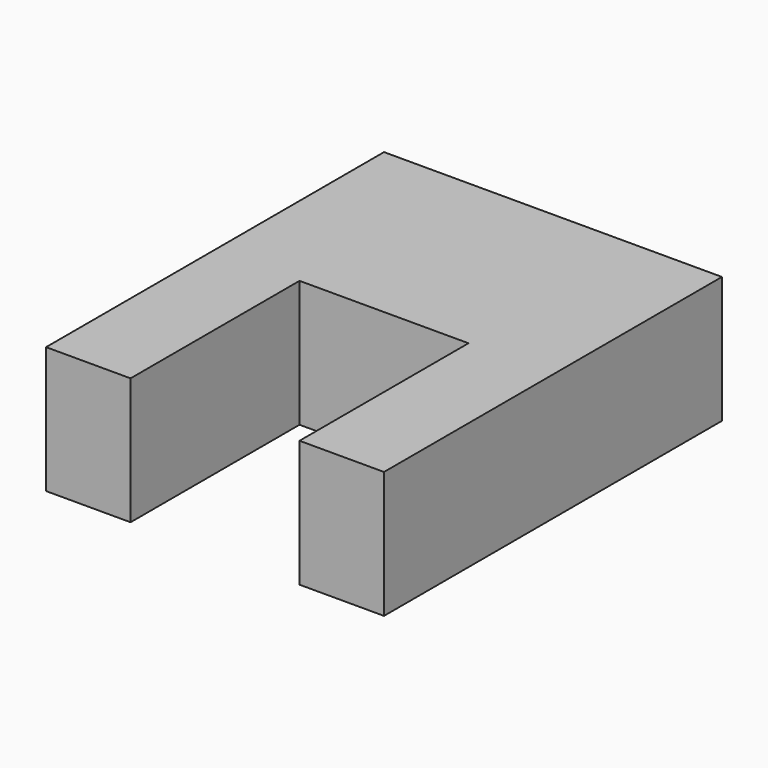
from build123d import *

# Parameters (mm, degrees)
F0_W     = 50
F0_H     = 15
F1_DEPTH = 40
F2_W     = 20
F2_H     = 25
F3_DEPTH = 25


with BuildPart() as f1:
    # F0 (on Right) → F1 (new body)
    with BuildSketch(Plane.YZ):
        with Locations((25, 7.5)):
            Rectangle(F0_W, F0_H)
    extrude(amount=F1_DEPTH)

    # F2 (on face) → F3 (cut)
    with BuildSketch(Plane.XY.offset(15)):
        with Locations((20, 12.5)):
            Rectangle(F2_W, F2_H)
    extrude(amount=-F3_DEPTH, mode=Mode.SUBTRACT)


solid = f1.part
